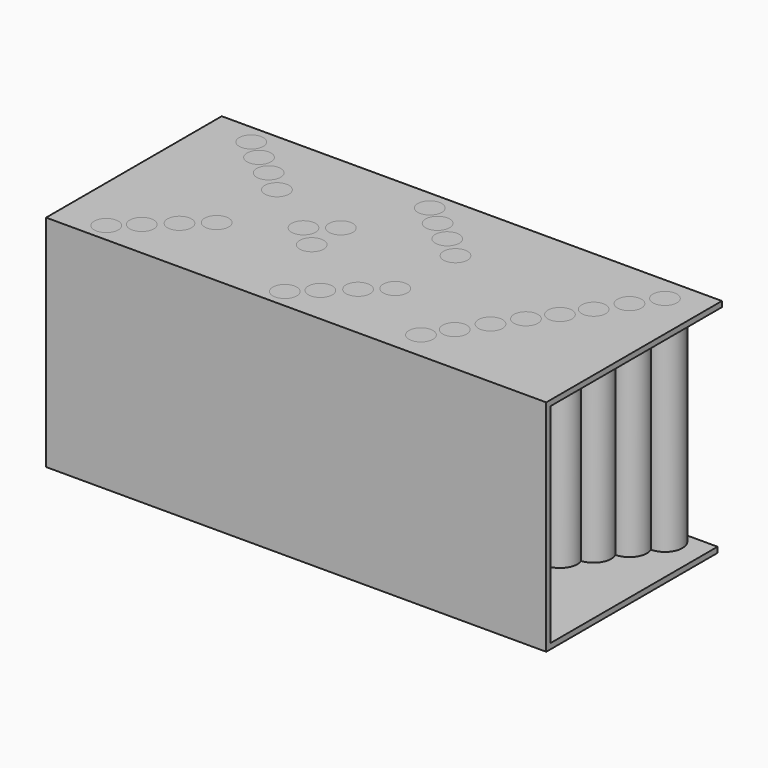
from build123d import *

# Parameters (mm, degrees)
F0_R     = 5.554452
F1_DEPTH = 101.6
F0_W     = 231.420932
F0_H     = 101.6
F3_DEPTH = 101.6
F4_T     = -2.54
F6_DEPTH = 2.54


with BuildPart() as f1:
    # F0 (on Top) → F1 (new body)
    with BuildSketch(Plane.XY):
        with Locations((-85.772896, 20.472803)):
            Circle(F0_R)
        with Locations((-76.039111, 12.807549)):
            Circle(F0_R)
        with Locations((-65.759721, 5.551509)):
            Circle(F0_R)
        with Locations((-55.177995, -2.913871)):
            Circle(F0_R)
        with Locations((-85.843962, -63.295784)):
            Circle(F0_R)
        with Locations((-76.341441, -54.613154)):
            Circle(F0_R)
        with Locations((-66.259978, -45.421541)):
            Circle(F0_R)
        with Locations((-56.149575, -36.563382)):
            Circle(F0_R)
        with Locations((-29.074813, -20.181847)):
            Circle(F0_R)
        with Locations((-18.493088, -11.7778)):
            Circle(F0_R)
        with Locations((-18.493088, -28.647227)):
            Circle(F0_R)
        with Locations((-3.222283, -63.295784)):
            Circle(F0_R)
        with Locations((6.280238, -54.613154)):
            Circle(F0_R)
        with Locations((16.361701, -45.421541)):
            Circle(F0_R)
        with Locations((26.472105, -36.563382)):
            Circle(F0_R)
        with Locations((27.443684, -2.913871)):
            Circle(F0_R)
        with Locations((16.861959, 5.551509)):
            Circle(F0_R)
        with Locations((6.582568, 12.807549)):
            Circle(F0_R)
        with Locations((-3.151217, 20.472803)):
            Circle(F0_R)
        with Locations((56.406787, -59.077228)):
            Circle(F0_R)
        with Locations((63.338287, -48.231018)):
            Circle(F0_R)
        with Locations((70.697268, -36.743327)):
            Circle(F0_R)
        with Locations((78.170508, -25.570237)):
            Circle(F0_R)
        with Locations((85.658279, -15.255337)):
            Circle(F0_R)
        with Locations((92.589779, -4.409128)):
            Circle(F0_R)
        with Locations((99.94876, 7.078563)):
            Circle(F0_R)
        with Locations((107.422, 18.251653)):
            Circle(F0_R)
    extrude(amount=F1_DEPTH)


with BuildPart() as f3:
    # F0 (on Top) → F3 (new body)
    with BuildSketch(Plane.XY):
        with Locations((9.02009, -21.239486)):
            Rectangle(F0_W, F0_H)
        with Locations((-85.843962, -63.295784)):
            Circle(F0_R, mode=Mode.SUBTRACT)
        with Locations((-76.341441, -54.613154)):
            Circle(F0_R, mode=Mode.SUBTRACT)
        with Locations((-3.222283, -63.295784)):
            Circle(F0_R, mode=Mode.SUBTRACT)
        with Locations((6.280238, -54.613154)):
            Circle(F0_R, mode=Mode.SUBTRACT)
        with Locations((-66.259978, -45.421541)):
            Circle(F0_R, mode=Mode.SUBTRACT)
        with Locations((-56.149575, -36.563382)):
            Circle(F0_R, mode=Mode.SUBTRACT)
        with Locations((-18.493088, -28.647227)):
            Circle(F0_R, mode=Mode.SUBTRACT)
        with Locations((56.406787, -59.077228)):
            Circle(F0_R, mode=Mode.SUBTRACT)
        with Locations((63.338287, -48.231018)):
            Circle(F0_R, mode=Mode.SUBTRACT)
        with Locations((16.361701, -45.421541)):
            Circle(F0_R, mode=Mode.SUBTRACT)
        with Locations((26.472105, -36.563382)):
            Circle(F0_R, mode=Mode.SUBTRACT)
        with Locations((70.697268, -36.743327)):
            Circle(F0_R, mode=Mode.SUBTRACT)
        with Locations((78.170508, -25.570237)):
            Circle(F0_R, mode=Mode.SUBTRACT)
        with Locations((-55.177995, -2.913871)):
            Circle(F0_R, mode=Mode.SUBTRACT)
        with Locations((-29.074813, -20.181847)):
            Circle(F0_R, mode=Mode.SUBTRACT)
        with Locations((-18.493088, -11.7778)):
            Circle(F0_R, mode=Mode.SUBTRACT)
        with Locations((-65.759721, 5.551509)):
            Circle(F0_R, mode=Mode.SUBTRACT)
        with Locations((-76.039111, 12.807549)):
            Circle(F0_R, mode=Mode.SUBTRACT)
        with Locations((-85.772896, 20.472803)):
            Circle(F0_R, mode=Mode.SUBTRACT)
        with Locations((6.582568, 12.807549)):
            Circle(F0_R, mode=Mode.SUBTRACT)
        with Locations((-3.151217, 20.472803)):
            Circle(F0_R, mode=Mode.SUBTRACT)
        with Locations((27.443684, -2.913871)):
            Circle(F0_R, mode=Mode.SUBTRACT)
        with Locations((85.658279, -15.255337)):
            Circle(F0_R, mode=Mode.SUBTRACT)
        with Locations((92.589779, -4.409128)):
            Circle(F0_R, mode=Mode.SUBTRACT)
        with Locations((16.861959, 5.551509)):
            Circle(F0_R, mode=Mode.SUBTRACT)
        with Locations((99.94876, 7.078563)):
            Circle(F0_R, mode=Mode.SUBTRACT)
        with Locations((107.422, 18.251653)):
            Circle(F0_R, mode=Mode.SUBTRACT)
    extrude(amount=F3_DEPTH)

    # F4
    f4_openings = [f3.faces().sort_by_distance(p)[0] for p in [
        (-106.690376, -21.239486, 50.8),
        (124.730556, -21.239486, 50.8),
    ]]
    offset(amount=F4_T, openings=f4_openings)

    # F5 (on face) → F6 (cut)
    with BuildSketch(Plane(origin=(0, 29.560514, 0), x_dir=(-1, 0, 0), z_dir=(0, 1, 0))):
        Polygon((-49.331822, 99.06), (-124.730556, 99.06), (-124.730556, 2.54), (-124.730556, 0), (-49.331822, 0), align=None)
    extrude(amount=-F6_DEPTH, mode=Mode.SUBTRACT)


solid = Compound([f1.part, f3.part])
